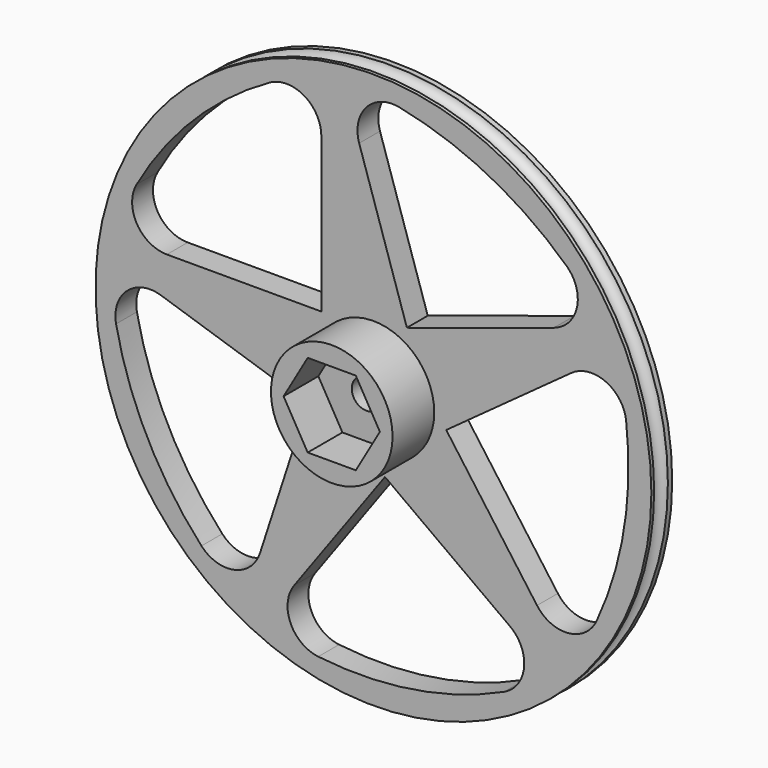
from build123d import *

# Parameters (mm, degrees)
F0_R     = 40.64
F1_DEPTH = 3.81
F3_DEPTH = 25.4
F4_R     = 8.89
F5_DEPTH = 7.62
F7_DEPTH = 6.35
F8_R     = 2.159
F9_DEPTH = 25.4


with BuildPart() as f1:
    # F0 (on Front) → F1 (new body)
    with BuildSketch(Plane.XZ):
        Circle(F0_R)
    extrude(amount=F1_DEPTH)

    # F2 (on face) → F3 (cut)
    with BuildSketch(Plane.XZ.offset(3.81)):
        with BuildLine():
            Line((-30.206892, 7.62), (-7.62, 7.62))
            Line((-7.62, 7.62), (-7.62, 30.206892))
            ThreePointArc((-7.62, 30.206892), (-10.132805, 34.590488), (-15.185319, 34.637421))
            ThreePointArc((-15.185319, 34.637421), (-26.253153, 26.253153), (-34.637421, 15.185319))
            ThreePointArc((-34.637421, 15.185319), (-34.590488, 10.132805), (-30.206892, 7.62))
        make_face()
        with BuildLine():
            Line((-16.581494, -26.373752), (-9.60176, -4.892341))
            Line((-9.60176, -4.892341), (-31.083171, 2.087392))
            ThreePointArc((-31.083171, 2.087392), (-36.028718, 1.052178), (-37.634667, -3.738545))
            ThreePointArc((-37.634667, -3.738545), (-33.080903, -16.855562), (-25.145648, -28.249624))
            ThreePointArc((-25.145648, -28.249624), (-20.325919, -29.7663), (-16.581494, -26.373752))
        make_face()
        with BuildLine():
            ThreePointArc((-11.590456, -28.916813), (-12.134167, -33.940206), (-8.074184, -36.947969))
            ThreePointArc((-8.074184, -36.947969), (5.808031, -36.670464), (19.096556, -32.644547))
            ThreePointArc((19.096556, -32.644547), (22.028379, -28.52939), (19.958965, -23.919875))
            Line((19.958965, -23.919875), (1.685786, -10.643633))
            Line((1.685786, -10.643633), (-11.590456, -28.916813))
        make_face()
        with BuildLine():
            ThreePointArc((23.919875, -19.958965), (28.52939, -22.028379), (32.644547, -19.096556))
            ThreePointArc((32.644547, -19.096556), (36.670464, -5.808031), (36.947969, 8.074184))
            ThreePointArc((36.947969, 8.074184), (33.940206, 12.134167), (28.916813, 11.590456))
            Line((28.916813, 11.590456), (10.643633, -1.685786))
            Line((10.643633, -1.685786), (23.919875, -19.958965))
        make_face()
        with BuildLine():
            ThreePointArc((26.373752, 16.581494), (29.7663, 20.325919), (28.249624, 25.145648))
            ThreePointArc((28.249624, 25.145648), (16.855562, 33.080903), (3.738545, 37.634667))
            ThreePointArc((3.738545, 37.634667), (-1.052178, 36.028718), (-2.087392, 31.083171))
            Line((-2.087392, 31.083171), (4.892341, 9.60176))
            Line((4.892341, 9.60176), (26.373752, 16.581494))
        make_face()
    extrude(amount=-F3_DEPTH, mode=Mode.SUBTRACT)

    # F4 (on face) → F5 (join)
    with BuildSketch(Plane.XZ.offset(3.81)):
        Circle(F4_R)
    extrude(amount=F5_DEPTH)

    # F6 (on face) → F7 (cut)
    with BuildSketch(Plane.XZ.offset(11.43)):
        Polygon((3.519527, -6.096), (7.039054, 0), (3.519527, 6.096), (-3.519527, 6.096), (-7.039054, 0), (-3.519527, -6.096), align=None)
    extrude(amount=-F7_DEPTH, mode=Mode.SUBTRACT)

    # F8 (on face) → F9 (cut)
    with BuildSketch(Plane.XZ.offset(5.08)):
        Circle(F8_R)
    extrude(amount=-F9_DEPTH, mode=Mode.SUBTRACT)

    # F10 (on Top) → F11 (revolve, cut)
    with BuildSketch(Plane.XY):
        with BuildLine():
            Line((40.64, -3.302), (40.64, -0.791535))
            ThreePointArc((40.64, -0.791535), (39.563109, -2.046767), (40.64, -3.302))
        make_face()
    revolve(axis=Axis((0, -1.905, 0), (0, -1, 0)), mode=Mode.SUBTRACT)


solid = f1.part
